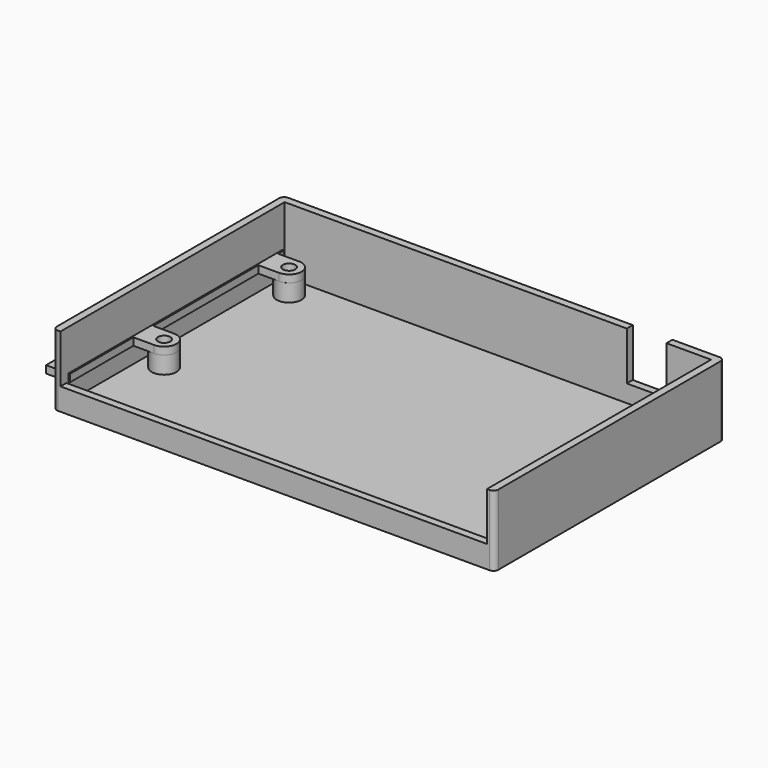
from build123d import *

# Parameters (mm, degrees)
F2_W      = 86
F2_H      = 1.5
F2_W_2    = 8
F3_DEPTH  = 1
F5_R      = 2.5
F5_R_2    = 1.45
F8_R      = 1
F9_R      = 1.25
F10_DEPTH = 1.5


with BuildPart() as f3:
    # F2 (on line) → F3 (new body)
    with BuildSketch(Plane(origin=(0, 0, -3.5), x_dir=(1, 0, 0), z_dir=(0, 0, -1))):
        Polygon((34, -27.5), (43, -27.5), (43, 27.5), (-43, 27.5), (-43, -27.5), (26, -27.5), align=None)
        with Locations((0, 28.25)):
            Rectangle(F2_W, F2_H)
        Polygon((26, -29), (26, -27.5), (-43, -27.5), (-43, 27.5), (-43, 29), (-44.5, 29), (-44.5, -29), align=None)
        with Locations((30, -28.25)):
            Rectangle(F2_W_2, F2_H)
        Polygon((43, 27.5), (43, -27.5), (34, -27.5), (34, -29), (44.5, -29), (44.5, 29), (43, 29), align=None)
    extrude(amount=F3_DEPTH)

    # F4: sweep along a path in F0
    with BuildLine(Plane.XZ) as f4_path:
        Line((0, -3.5), (0, 0))
        Line((0, 0), (0, 1.25))
        Line((0, 1.25), (0, 9.75))
    # F2 (on line) → F4 (sweep)
    with BuildSketch(Plane(origin=(0, 0, -3.5), x_dir=(1, 0, 0), z_dir=(0, 0, -1))):
        Polygon((26, -29), (26, -27.5), (-43, -27.5), (-43, 27.5), (-43, 29), (-44.5, 29), (-44.5, -29), align=None)
        Polygon((43, 27.5), (43, -27.5), (34, -27.5), (34, -29), (44.5, -29), (44.5, 29), (43, 29), align=None)
    sweep(path=f4_path.line)

    # F6: sweep along a path in F0
    with BuildLine(Plane.XZ) as f6_path:
        Line((0, 0), (0, -3.5))
    # F5 (on line) → F6 (sweep)
    with BuildSketch(Plane(origin=(0, 0, -3.5), x_dir=(1, 0, 0), z_dir=(0, 0, -1))):
        with Locations((-38.5, -23)):
            Circle(F5_R)
        with Locations((-38.5, -23)):
            Circle(F5_R_2, mode=Mode.SUBTRACT)
        with Locations((-38.5, 8.5)):
            Circle(F5_R)
        with Locations((-38.5, 8.5)):
            Circle(F5_R_2, mode=Mode.SUBTRACT)
        with Locations((38.5, 8.5)):
            Circle(F5_R)
        with Locations((38.5, 8.5)):
            Circle(F5_R_2, mode=Mode.SUBTRACT)
        with Locations((38.5, -23)):
            Circle(F5_R)
        with Locations((38.5, -23)):
            Circle(F5_R_2, mode=Mode.SUBTRACT)
    sweep(path=f6_path.line)

    # F7: sweep along a path in F0
    with BuildLine(Plane.XZ) as f7_path:
        Line((0, 0), (0, -3.5))
    # F2 (on line) → F7 (sweep)
    with BuildSketch(Plane(origin=(0, 0, -3.5), x_dir=(1, 0, 0), z_dir=(0, 0, -1))):
        with Locations((0, 28.25)):
            Rectangle(F2_W, F2_H)
        with Locations((30, -28.25)):
            Rectangle(F2_W_2, F2_H)
    sweep(path=f7_path.line)

    # F8
    f8_edges = [f3.edges().sort_by_distance(p)[0] for p in [
        (44.5, -29, 2.625),
        (44.5, 29, 2.625),
        (-44.5, -29, 2.625),
        (-44.5, 29, 2.625),
    ]]
    fillet(f8_edges, radius=F8_R)


with BuildPart() as f10:
    # F9 (on Top) → F10 (new body)
    with BuildSketch(Plane.XY):
        Polygon((-42.7, 25.5), (-42.7, 27), (-47.5, 27), (-47.5, -27), (-42.7, -27), (-42.7, -11), (-42.7, -6), (-42.7, 20.5), align=None)
        with BuildLine():
            Line((-38.5, 25.5), (-42.7, 25.5))
            Line((-42.7, 25.5), (-42.7, 20.5))
            Line((-42.7, 20.5), (-38.5, 20.5))
            ThreePointArc((-38.5, 20.5), (-36, 23), (-38.5, 25.5))
        make_face()
        with Locations((-38.5, 23)):
            Circle(F9_R, mode=Mode.SUBTRACT)
        with BuildLine():
            Line((-38.5, -6), (-42.7, -6))
            Line((-42.7, -6), (-42.7, -11))
            Line((-42.7, -11), (-38.5, -11))
            ThreePointArc((-38.5, -11), (-36, -8.5), (-38.5, -6))
        make_face()
        with Locations((-38.5, -8.5)):
            Circle(F9_R, mode=Mode.SUBTRACT)
    extrude(amount=F10_DEPTH)


solid = Compound([f3.part, f10.part])
